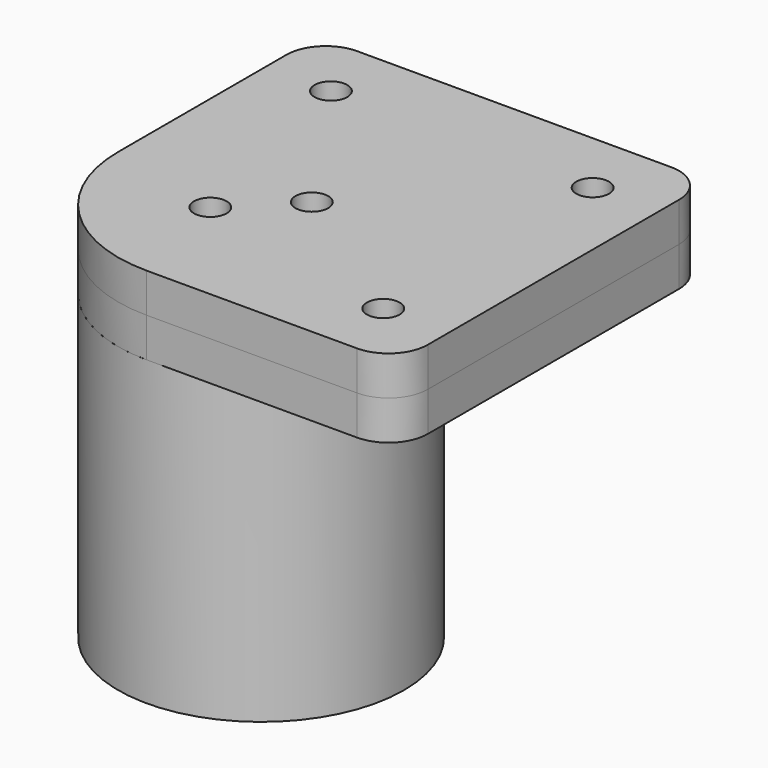
from build123d import *

# Parameters (mm, degrees)
F0_R     = 10.922
F1_DEPTH = 23.114
F3_DEPTH = 3
F4_R     = 3
F6_D     = 2.5
F6_2_D   = 2.5
F7_DEPTH = 3
F9_DEPTH = 26.115
F10_D    = 2.5


with BuildPart() as f1:
    # F0 (on Top) → F1 (new body)
    with BuildSketch(Plane.XY):
        Circle(F0_R)
    extrude(amount=F1_DEPTH)

    # F6 (through all)
    with Locations(Plane.XY.offset(26.114)):
        with Locations((-2.1552614691, -2.1552614691), (2.1552614691, 2.1552614691)):
            Hole(F6_D / 2)


with BuildPart() as f3:
    # F2 (on face) → F3 (new body)
    with BuildSketch(Plane.XY.offset(23.114)):
        with BuildLine():
            Line((-10.922, 19.078), (-10.922, 0))
            ThreePointArc((-10.922, 0), (-7.7230202641, -7.7230202641), (0, -10.922))
            Line((0, -10.922), (19.078, -10.922))
            Line((19.078, -10.922), (19.078, 19.078))
            Line((19.078, 19.078), (-10.922, 19.078))
        make_face()
    extrude(amount=F3_DEPTH)

    # F4
    f4_edges = [f3.edges().sort_by_distance(p)[0] for p in [
        (19.078, -10.922, 24.614),
        (19.078, 19.078, 24.614),
        (-10.922, 19.078, 24.614),
    ]]
    fillet(f4_edges, radius=F4_R)

    # F6#2 (through all)
    with Locations(Plane.XY.offset(26.114)):
        with Locations((-2.1552614691, -2.1552614691), (2.1552614691, 2.1552614691)):
            Hole(F6_2_D / 2)


with BuildPart() as f7:
    # F7 (new): a face of the model
    f7_faces = [f3.part.faces().sort_by_distance(p)[0] for p in [
        (4.4668066755, 4.4668066755, 26.114),
    ]]
    extrude(f7_faces, amount=F7_DEPTH)

    # F10 (through all)
    with Locations(Plane(origin=(0, 0, 26.114), x_dir=(1, 0, 0), z_dir=(0, 0, -1))):
        with Locations((-5.922, -14.078), (14.078, -14.078), (14.078, 5.922)):
            Hole(F10_D / 2)


with BuildPart() as f3_1:
    add(f3.part)

    # F8 (on face) → F9 (cut, through all)
    with BuildSketch(Plane.XY.offset(26.114)):
        Polygon((-3.422, 12.634624327), (-3.422, 15.521375673), (-5.922, 16.9647513459), (-8.422, 15.521375673), (-8.422, 12.634624327), (-5.922, 11.1912486541), align=None)
        Polygon((14.078, 16.9647513459), (11.578, 15.521375673), (11.578, 12.634624327), (14.078, 11.1912486541), (16.578, 12.634624327), (16.578, 15.521375673), align=None)
        Polygon((11.578, -4.478624327), (11.578, -7.365375673), (14.078, -8.8087513459), (16.578, -7.365375673), (16.578, -4.478624327), (14.078, -3.0352486541), align=None)
    extrude(amount=-F9_DEPTH, mode=Mode.SUBTRACT)


solid = Compound([f1.part, f7.part, f3_1.part])
